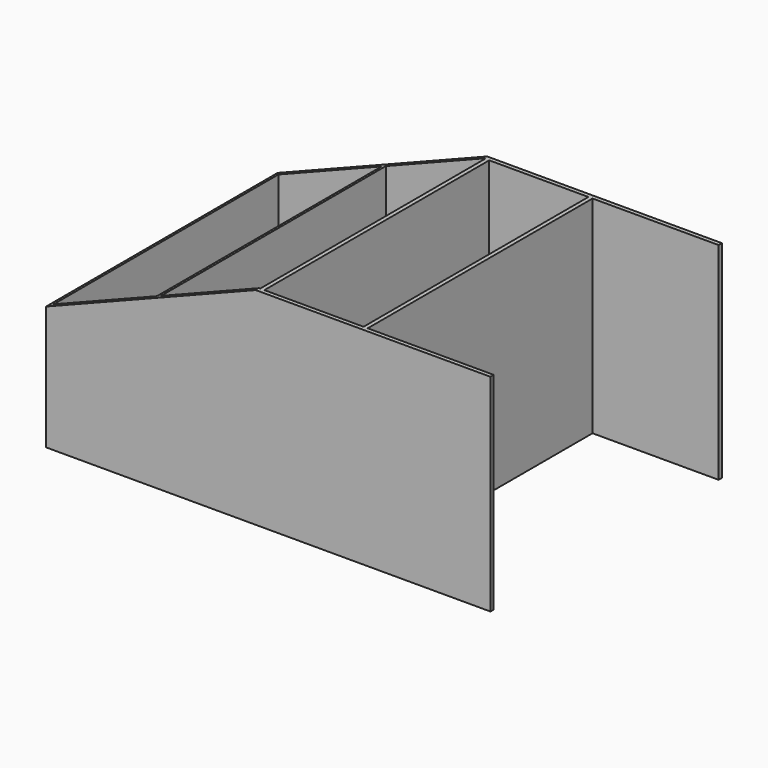
from build123d import *

# Parameters (mm, degrees)
F0_W     = 273.05
F0_H     = 177.8
F0_W_2   = 267.97
F0_H_2   = 172.72
F1_DEPTH = 127
F2_W     = 2.54
F2_H     = 172.72
F3_DEPTH = 127
F5_DEPTH = 177.801
F6_W     = 172.72
F6_H     = 127
F7_DEPTH = 25.4


with BuildPart() as f1:
    # F0 (on Top) → F1 (new body)
    with BuildSketch(Plane.XY):
        with Locations((136.525, 88.9)):
            Rectangle(F0_W, F0_H)
        with Locations((136.525, 88.9)):
            Rectangle(F0_W_2, F0_H_2, mode=Mode.SUBTRACT)
    extrude(amount=F1_DEPTH)

    # F2 (on Top) → F3 (join)
    with BuildSketch(Plane.XY):
        with Locations((67.31, 88.9)):
            Rectangle(F2_W, F2_H)
        with Locations((130.81, 88.9)):
            Rectangle(F2_W, F2_H)
        with Locations((194.31, 88.9)):
            Rectangle(F2_W, F2_H)
    extrude(amount=F3_DEPTH)

    # F4 (on face) → F5 (cut, through all)
    with BuildSketch(Plane.XZ):
        Polygon((0, 76.2), (128.840938, 127), (0, 127), align=None)
    extrude(amount=-F5_DEPTH, mode=Mode.SUBTRACT)

    # F6 (on face) → F7 (cut)
    with BuildSketch(Plane.YZ.offset(273.05)):
        with Locations((88.9, 63.5)):
            Rectangle(F6_W, F6_H)
    extrude(amount=-F7_DEPTH, mode=Mode.SUBTRACT)


solid = f1.part
